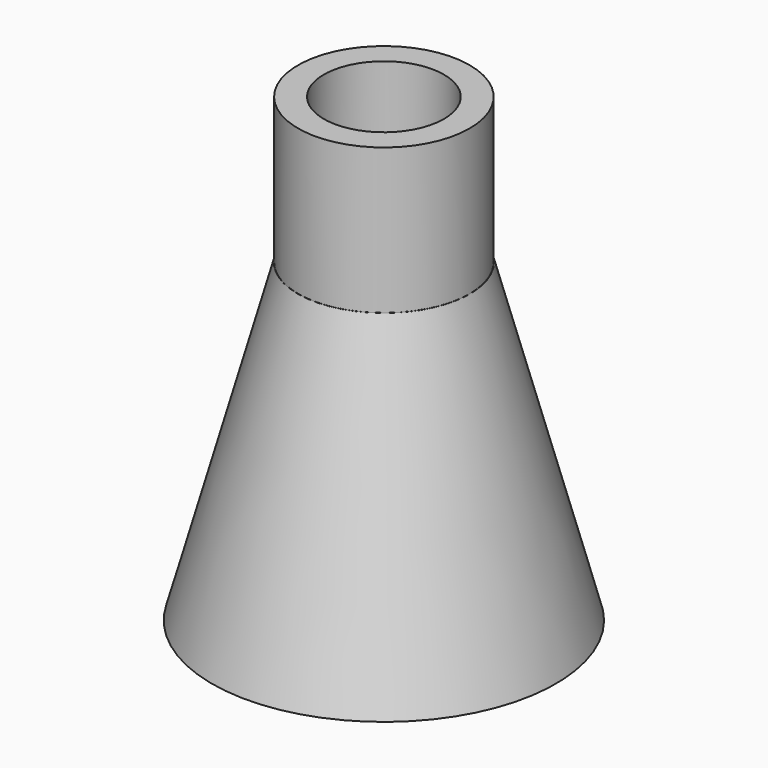
from build123d import *

# Parameters (mm, degrees)
F2_R     = 10.5
F3_DEPTH = 90.17
F4_R     = 14.962462
F4_R_2   = 10.482231
F5_DEPTH = 25.4


with BuildPart() as f1:
    # F0 (on Front) → F1 (revolve)
    with BuildSketch(Plane.XZ):
        Polygon((0, -50.732268), (0, 4.267732), (-15, 4.267732), (-30, -50.732268), align=None)
    revolve(axis=Axis((0, 0, -23.232268), (0, 0, -1)))

    # F2 (on face) → F3 (cut)
    with BuildSketch(Plane.XY.offset(4.267732)):
        Circle(F2_R)
    extrude(amount=-F3_DEPTH, mode=Mode.SUBTRACT)

    # F4 (on face) → F5 (join)
    with BuildSketch(Plane.XY.offset(4.267732)):
        Circle(F4_R)
        Circle(F4_R_2, mode=Mode.SUBTRACT)
    extrude(amount=F5_DEPTH)


solid = f1.part
